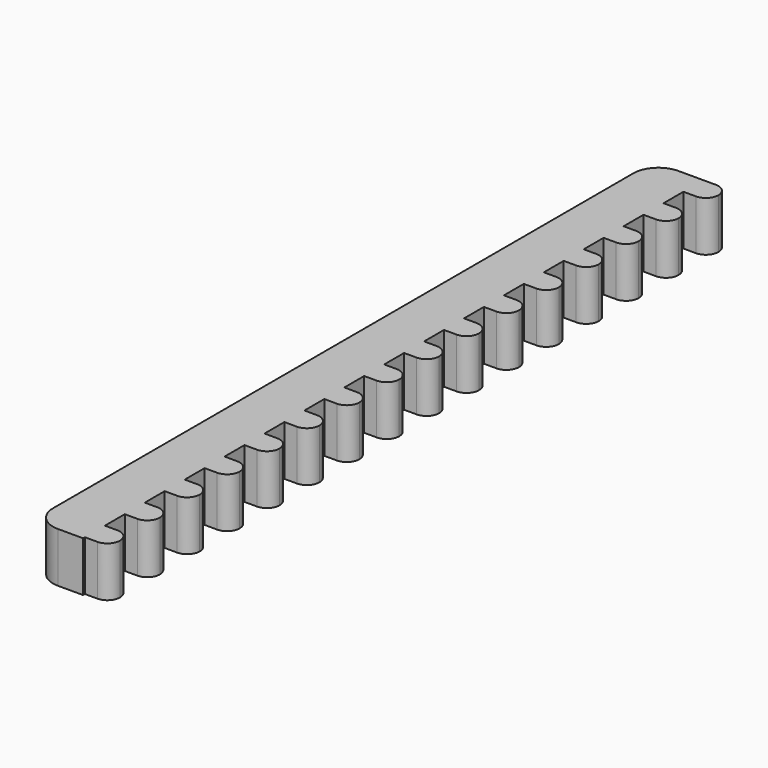
from build123d import *

# Parameters (mm, degrees)
F1_DEPTH = 3.175
F2_R     = 1.5875


with BuildPart() as f1:
    # F0 (on Top) → F1 (new body)
    with BuildSketch(Plane.XY):
        Polygon((-15.875, -24.60625), (-12.7, -24.60625), (-12.7, -24.463631), (-12.7, -22.876131), (-12.7, -21.298139), (-12.7, -19.710639), (-12.7, -18.132646), (-12.7, -16.545146), (-12.7, -14.967154), (-12.7, -13.379654), (-12.7, -11.801662), (-12.7, -10.214162), (-12.7, -8.63617), (-12.7, -7.04867), (-12.7, -5.470678), (-12.7, -3.883178), (-12.7, -2.305186), (-12.7, -0.717686), (-12.7, 0.860306), (-12.7, 2.447806), (-12.7, 4.025798), (-12.7, 5.613298), (-12.7, 7.19129), (-12.7, 8.77879), (-12.7, 10.356782), (-12.7, 11.944282), (-12.7, 13.522274), (-12.7, 15.109774), (-12.7, 16.687766), (-12.7, 18.275266), (-12.7, 19.853258), (-12.7, 21.440758), (-12.7, 23.01875), (-12.7, 24.60625), (-15.875, 24.60625), align=None)
        with BuildLine():
            Line((-12.7, -22.876131), (-12.7, -24.463631))
            Line((-12.7, -24.463631), (-11.90625, -24.463631))
            ThreePointArc((-11.90625, -24.463631), (-11.344984, -24.231147), (-11.1125, -23.669881))
            ThreePointArc((-11.1125, -23.669881), (-11.344984, -23.108615), (-11.90625, -22.876131))
            Line((-11.90625, -22.876131), (-12.7, -22.876131))
        make_face()
        with BuildLine():
            Line((-12.7, -19.710639), (-12.7, -21.298139))
            Line((-12.7, -21.298139), (-11.90625, -21.298139))
            ThreePointArc((-11.90625, -21.298139), (-11.344984, -21.065655), (-11.1125, -20.504389))
            ThreePointArc((-11.1125, -20.504389), (-11.344984, -19.943123), (-11.90625, -19.710639))
            Line((-11.90625, -19.710639), (-12.7, -19.710639))
        make_face()
        with BuildLine():
            Line((-12.7, -16.545146), (-12.7, -18.132646))
            Line((-12.7, -18.132646), (-11.90625, -18.132646))
            ThreePointArc((-11.90625, -18.132646), (-11.344984, -17.900162), (-11.1125, -17.338896))
            ThreePointArc((-11.1125, -17.338896), (-11.344984, -16.77763), (-11.90625, -16.545146))
            Line((-11.90625, -16.545146), (-12.7, -16.545146))
        make_face()
        with BuildLine():
            Line((-12.7, -13.379654), (-12.7, -14.967154))
            Line((-12.7, -14.967154), (-11.90625, -14.967154))
            ThreePointArc((-11.90625, -14.967154), (-11.344984, -14.73467), (-11.1125, -14.173404))
            ThreePointArc((-11.1125, -14.173404), (-11.344984, -13.612138), (-11.90625, -13.379654))
            Line((-11.90625, -13.379654), (-12.7, -13.379654))
        make_face()
        with BuildLine():
            Line((-12.7, -10.214162), (-12.7, -11.801662))
            Line((-12.7, -11.801662), (-11.90625, -11.801662))
            ThreePointArc((-11.90625, -11.801662), (-11.344984, -11.569178), (-11.1125, -11.007912))
            ThreePointArc((-11.1125, -11.007912), (-11.344984, -10.446646), (-11.90625, -10.214162))
            Line((-11.90625, -10.214162), (-12.7, -10.214162))
        make_face()
        with BuildLine():
            Line((-12.7, -7.04867), (-12.7, -8.63617))
            Line((-12.7, -8.63617), (-11.90625, -8.63617))
            ThreePointArc((-11.90625, -8.63617), (-11.344984, -8.403686), (-11.1125, -7.84242))
            ThreePointArc((-11.1125, -7.84242), (-11.344984, -7.281154), (-11.90625, -7.04867))
            Line((-11.90625, -7.04867), (-12.7, -7.04867))
        make_face()
        with BuildLine():
            Line((-12.7, -3.883178), (-12.7, -5.470678))
            Line((-12.7, -5.470678), (-11.90625, -5.470678))
            ThreePointArc((-11.90625, -5.470678), (-11.344984, -5.238194), (-11.1125, -4.676928))
            ThreePointArc((-11.1125, -4.676928), (-11.344984, -4.115662), (-11.90625, -3.883178))
            Line((-11.90625, -3.883178), (-12.7, -3.883178))
        make_face()
        with BuildLine():
            Line((-12.7, -0.717686), (-12.7, -2.305186))
            Line((-12.7, -2.305186), (-11.90625, -2.305186))
            ThreePointArc((-11.90625, -2.305186), (-11.344984, -2.072702), (-11.1125, -1.511436))
            ThreePointArc((-11.1125, -1.511436), (-11.344984, -0.95017), (-11.90625, -0.717686))
            Line((-11.90625, -0.717686), (-12.7, -0.717686))
        make_face()
        with BuildLine():
            Line((-11.90625, 2.447806), (-12.7, 2.447806))
            Line((-12.7, 2.447806), (-12.7, 0.860306))
            Line((-12.7, 0.860306), (-11.90625, 0.860306))
            ThreePointArc((-11.90625, 0.860306), (-11.344984, 1.09279), (-11.1125, 1.654056))
            ThreePointArc((-11.1125, 1.654056), (-11.344984, 2.215322), (-11.90625, 2.447806))
        make_face()
        with BuildLine():
            Line((-11.90625, 5.613298), (-12.7, 5.613298))
            Line((-12.7, 5.613298), (-12.7, 4.025798))
            Line((-12.7, 4.025798), (-11.90625, 4.025798))
            ThreePointArc((-11.90625, 4.025798), (-11.344984, 4.258282), (-11.1125, 4.819548))
            ThreePointArc((-11.1125, 4.819548), (-11.344984, 5.380814), (-11.90625, 5.613298))
        make_face()
        with BuildLine():
            Line((-11.90625, 8.77879), (-12.7, 8.77879))
            Line((-12.7, 8.77879), (-12.7, 7.19129))
            Line((-12.7, 7.19129), (-11.90625, 7.19129))
            ThreePointArc((-11.90625, 7.19129), (-11.344984, 7.423774), (-11.1125, 7.98504))
            ThreePointArc((-11.1125, 7.98504), (-11.344984, 8.546306), (-11.90625, 8.77879))
        make_face()
        with BuildLine():
            Line((-11.90625, 11.944282), (-12.7, 11.944282))
            Line((-12.7, 11.944282), (-12.7, 10.356782))
            Line((-12.7, 10.356782), (-11.90625, 10.356782))
            ThreePointArc((-11.90625, 10.356782), (-11.344984, 10.589266), (-11.1125, 11.150532))
            ThreePointArc((-11.1125, 11.150532), (-11.344984, 11.711798), (-11.90625, 11.944282))
        make_face()
        with BuildLine():
            Line((-11.90625, 15.109774), (-12.7, 15.109774))
            Line((-12.7, 15.109774), (-12.7, 13.522274))
            Line((-12.7, 13.522274), (-11.90625, 13.522274))
            ThreePointArc((-11.90625, 13.522274), (-11.344984, 13.754758), (-11.1125, 14.316024))
            ThreePointArc((-11.1125, 14.316024), (-11.344984, 14.87729), (-11.90625, 15.109774))
        make_face()
        with BuildLine():
            Line((-11.90625, 18.275266), (-12.7, 18.275266))
            Line((-12.7, 18.275266), (-12.7, 16.687766))
            Line((-12.7, 16.687766), (-11.90625, 16.687766))
            ThreePointArc((-11.90625, 16.687766), (-11.344984, 16.92025), (-11.1125, 17.481516))
            ThreePointArc((-11.1125, 17.481516), (-11.344984, 18.042782), (-11.90625, 18.275266))
        make_face()
        with BuildLine():
            Line((-11.90625, 21.440758), (-12.7, 21.440758))
            Line((-12.7, 21.440758), (-12.7, 19.853258))
            Line((-12.7, 19.853258), (-11.90625, 19.853258))
            ThreePointArc((-11.90625, 19.853258), (-11.344984, 20.085742), (-11.1125, 20.647008))
            ThreePointArc((-11.1125, 20.647008), (-11.344984, 21.208274), (-11.90625, 21.440758))
        make_face()
        with BuildLine():
            Line((-11.90625, 24.60625), (-12.7, 24.60625))
            Line((-12.7, 24.60625), (-12.7, 23.01875))
            Line((-12.7, 23.01875), (-11.90625, 23.01875))
            ThreePointArc((-11.90625, 23.01875), (-11.344984, 23.251234), (-11.1125, 23.8125))
            ThreePointArc((-11.1125, 23.8125), (-11.344984, 24.373766), (-11.90625, 24.60625))
        make_face()
    extrude(amount=F1_DEPTH)

    # F2
    f2_edges = [f1.edges().sort_by_distance(p)[0] for p in [
        (-15.875, 24.60625, 1.5875),
        (-15.875, -24.60625, 1.5875),
    ]]
    fillet(f2_edges, radius=F2_R)


solid = f1.part
